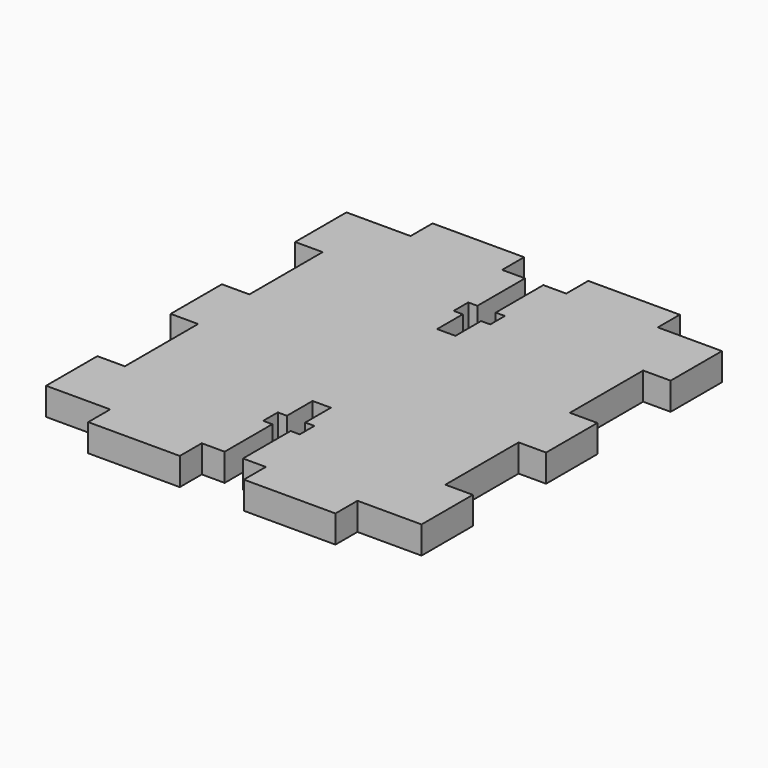
from build123d import *

# Parameters (mm, degrees)
F1_DEPTH = 3


with BuildPart() as f1:
    # F0 (on Top) → F1 (new body)
    with BuildSketch(Plane.XY):
        Polygon((-56.347942, 28.080934), (-63.347942, 28.080934), (-63.347942, 21.080934), (-60.347942, 21.080934), (-60.347942, 11.080934), (-63.347942, 11.080934), (-63.347942, 4.080934), (-60.347942, 4.080934), (-60.347942, -5.919066), (-63.347942, -5.919066), (-63.347942, -12.919066), (-56.347942, -12.919066), (-56.347942, -15.919066), (-46.347942, -15.919066), (-46.347942, -12.919066), (-43.847942, -12.919066), (-43.847942, -6.419066), (-44.847942, -6.419066), (-44.847942, -4.419066), (-43.847942, -4.419066), (-43.847942, -0.919066), (-41.847942, -0.919066), (-41.847942, -4.419066), (-40.847942, -4.419066), (-40.847942, -6.419066), (-41.847942, -6.419066), (-41.847942, -12.919066), (-39.347942, -12.919066), (-39.347942, -15.919066), (-29.347942, -15.919066), (-29.347942, -12.919066), (-22.347942, -12.919066), (-22.347942, -5.919066), (-25.347942, -5.919066), (-25.347942, 4.080934), (-22.347942, 4.080934), (-22.347942, 11.080934), (-25.347942, 11.080934), (-25.347942, 21.080934), (-22.347942, 21.080934), (-22.347942, 28.080934), (-29.347942, 28.080934), (-29.347942, 31.080934), (-39.347942, 31.080934), (-39.347942, 28.080934), (-41.847942, 28.080934), (-41.847942, 21.580934), (-40.847942, 21.580934), (-40.847942, 19.580934), (-41.847942, 19.580934), (-41.847942, 16.080934), (-43.847942, 16.080934), (-43.847942, 19.580934), (-44.847942, 19.580934), (-44.847942, 21.580934), (-43.847942, 21.580934), (-43.847942, 28.080934), (-46.347942, 28.080934), (-46.347942, 31.080934), (-56.347942, 31.080934), align=None)
    extrude(amount=F1_DEPTH)


solid = f1.part
